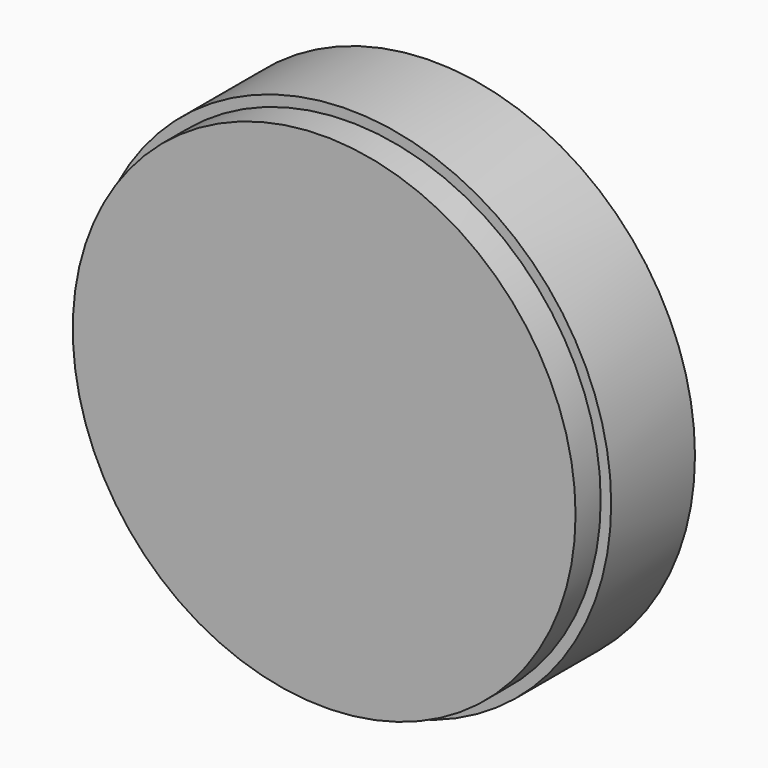
from build123d import *

# Parameters (mm, degrees)
F0_R     = 63.5
F1_DEPTH = 25.4
F2_T     = -2.54
F4_R     = 60.96
F3_DEPTH = 7.62
F5_T     = -2.54


with BuildPart() as f1:
    # F0 (on Front) → F1 (new body)
    with BuildSketch(Plane.XZ):
        Circle(F0_R)
    extrude(amount=F1_DEPTH)

    # F2
    f2_openings = [f1.faces().sort_by_distance(p)[0] for p in [
        (0, -25.4, 0),
    ]]
    offset(amount=F2_T, openings=f2_openings)


with BuildPart() as f3:
    # F4 (on face) → F3 (new body)
    with BuildSketch(Plane.XZ.offset(25.4)):
        Circle(F4_R)
    extrude(amount=F3_DEPTH)

    # F5
    f5_openings = [f3.faces().sort_by_distance(p)[0] for p in [
        (0, -25.4, 0),
    ]]
    offset(amount=F5_T, openings=f5_openings)


solid = Compound([f1.part, f3.part])
